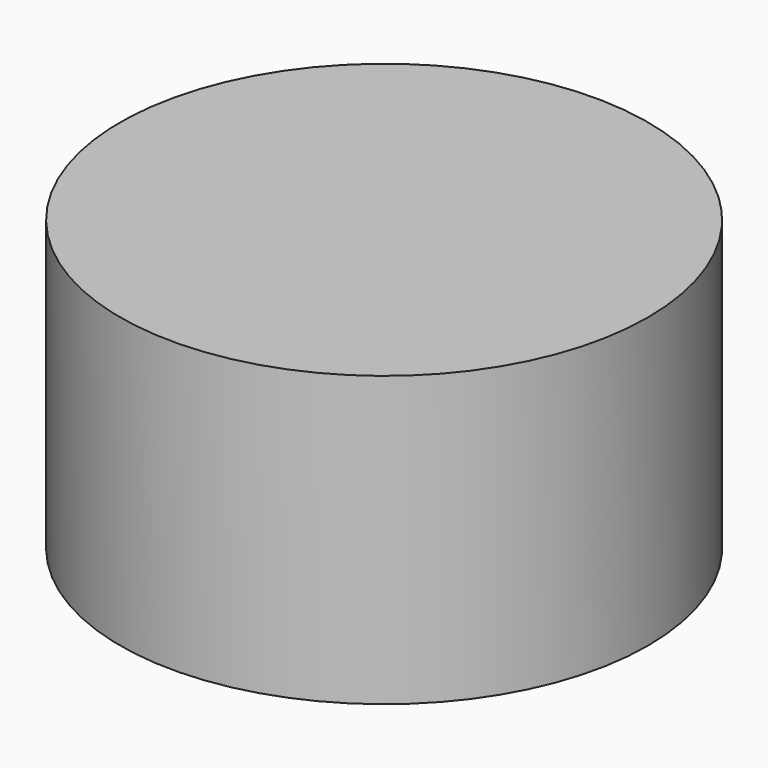
from build123d import *

# Parameters (mm, degrees)
F0_R     = 3.683
F1_DEPTH = 6.35
F2_R     = 4.741333
F3_DEPTH = 6.35
F4_R     = 5.799667
F5_DEPTH = 6.35


with BuildPart() as f1:
    # F0 (on Top) → F1 (new body)
    with BuildSketch(Plane.XY):
        Circle(F0_R)
    extrude(amount=F1_DEPTH)


with BuildPart() as f3:
    # F2 (on Top) → F3 (new body)
    with BuildSketch(Plane.XY):
        Circle(F2_R)
    extrude(amount=F3_DEPTH)


with BuildPart() as f5:
    # F4 (on Top) → F5 (new body)
    with BuildSketch(Plane.XY):
        Circle(F4_R)
    extrude(amount=F5_DEPTH)


solid = Compound([f1.part, f3.part, f5.part])
